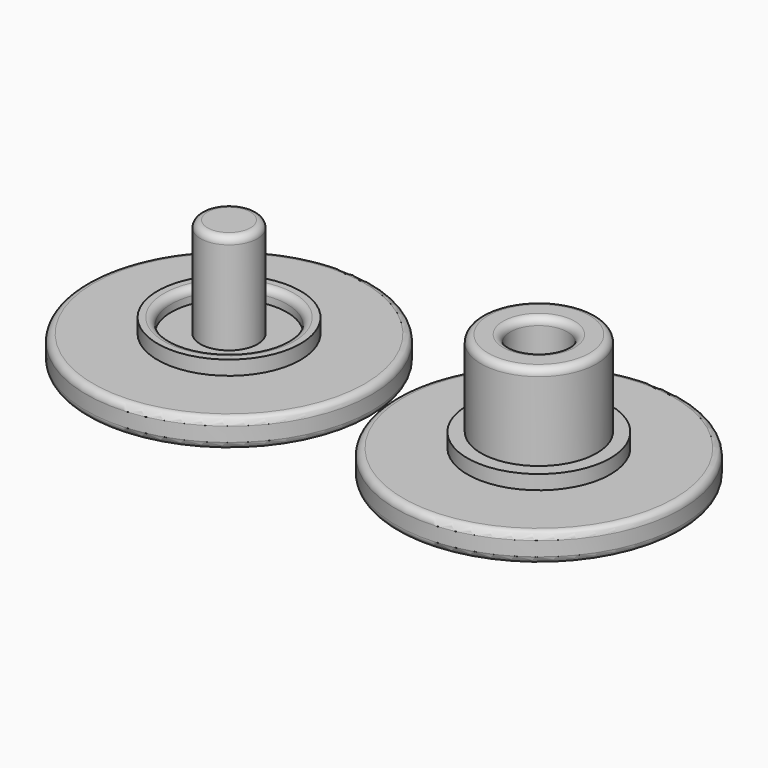
from build123d import *

# Parameters (mm, degrees)
F1_R     = 10
F1_R_2   = 5
F0_R     = 10
F0_R_2   = 5
F2_DEPTH = 2
F0_R_3   = 4.05
F1_R_3   = 4.05
F3_DEPTH = 3
F1_R_4   = 2
F0_R_4   = 2
F4_DEPTH = 2
F5_DEPTH = 9
F6_R     = 0.5
F6_2_R   = 0.5
F6_3_R   = 0.5


with BuildPart() as f2:
    # F1 (on Top) + F0 (on Top) → F2 (new body)
    with BuildSketch(Plane.XY):
        with Locations((-21.676788, 0)):
            Circle(F1_R)
        with Locations((-21.676788, 0)):
            Circle(F1_R_2, mode=Mode.SUBTRACT)
    with BuildSketch(Plane.XY):
        Circle(F0_R)
        Circle(F0_R_2, mode=Mode.SUBTRACT)
    extrude(amount=F2_DEPTH)

    # F6
    f6_edges = [f2.edges().sort_by_distance(p)[0] for p in [
        (-31.676788, 0, 2),
        (-10, 0, 2),
        (-10, 0, 0),
        (-31.676788, 0, 0),
    ]]
    fillet(f6_edges, radius=F6_R)


with BuildPart() as f3:
    # F0 (on Top) + F1 (on Top) → F3 (new body)
    with BuildSketch(Plane.XY):
        Circle(F0_R_2)
        Circle(F0_R_3, mode=Mode.SUBTRACT)
    with BuildSketch(Plane.XY):
        with Locations((-21.676788, 0)):
            Circle(F1_R_2)
        with Locations((-21.676788, 0)):
            Circle(F1_R_3, mode=Mode.SUBTRACT)
    extrude(amount=F3_DEPTH)

    # F1 (on Top) + F0 (on Top) → F4 (join)
    with BuildSketch(Plane.XY):
        with Locations((-21.676788, 0)):
            Circle(F1_R_3)
        with Locations((-21.676788, 0)):
            Circle(F1_R_4, mode=Mode.SUBTRACT)
    with BuildSketch(Plane.XY):
        Circle(F0_R_4)
    extrude(amount=F4_DEPTH)

    # F6#3
    f6_3_edges = [f3.edges().sort_by_distance(p)[0] for p in [
        (-25.726788, 0, 3),
    ]]
    fillet(f6_3_edges, radius=F6_3_R)


with BuildPart() as f5:
    # F0 (on Top) + F1 (on Top) → F5 (new body)
    with BuildSketch(Plane.XY):
        Circle(F0_R_3)
        Circle(F0_R_4, mode=Mode.SUBTRACT)
    with BuildSketch(Plane.XY):
        with Locations((-21.676788, 0)):
            Circle(F1_R_4)
    extrude(amount=F5_DEPTH)

    # F6#2
    f6_2_edges = [f5.edges().sort_by_distance(p)[0] for p in [
        (-2, 0, 9),
        (-23.676788, 0, 9),
        (-4.05, 0, 9),
    ]]
    fillet(f6_2_edges, radius=F6_2_R)


solid = Compound([f2.part, f3.part, f5.part])
